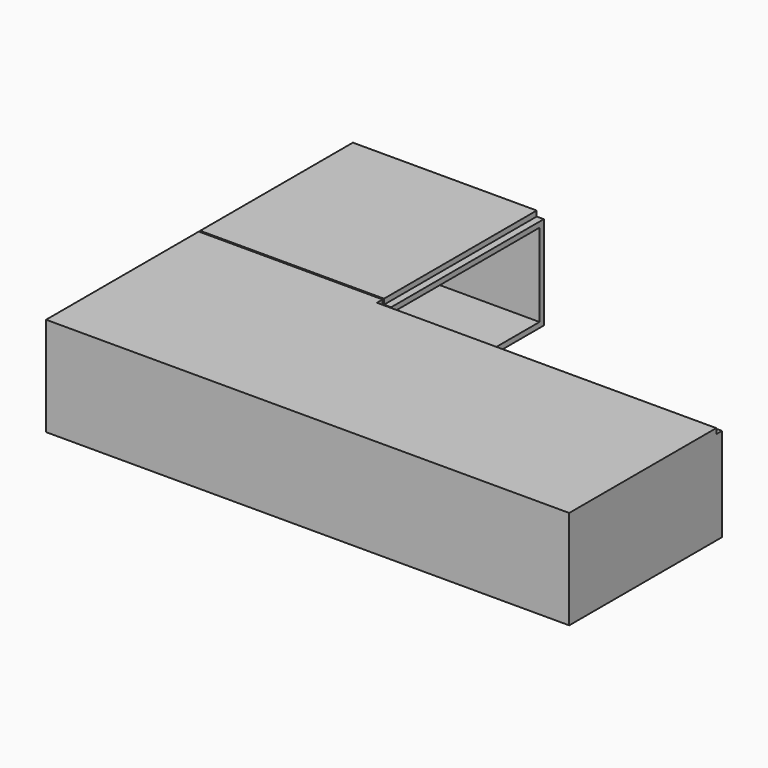
from build123d import *

# Parameters (mm, degrees)
F0_W     = 1879.6
F0_H     = 685.8
F1_DEPTH = 355.6
F2_W     = 25.4
F2_H     = 19.05
F3_DEPTH = 1219.2
F4_T     = -19.05
F5_W     = 685.8
F5_H     = 685.8
F6_DEPTH = 355.6
F7_W     = 25.4
F7_H     = 19.05
F8_DEPTH = 685.8
F9_T     = -19.05


with BuildPart() as f1:
    # F0 (on Top) → F1 (new body)
    with BuildSketch(Plane.XY):
        with Locations((208.4965914682, -5.3716953844)):
            Rectangle(F0_W, F0_H)
    extrude(amount=F1_DEPTH)

    # F2 (on face) → F3 (cut)
    with BuildSketch(Plane.YZ.offset(1148.2965914682)):
        with Locations((324.8283046156, 346.075)):
            Rectangle(F2_W, F2_H)
    extrude(amount=-F3_DEPTH, mode=Mode.SUBTRACT)

    # F4
    f4_openings = [f1.faces().sort_by_distance(p)[0] for p in [
        (196.609391, 337.528305, 171.7421),
    ]]
    offset(amount=F4_T, openings=f4_openings, kind=Kind.INTERSECTION)


with BuildPart() as f6:
    # F5 (on face) → F6 (new body)
    with BuildSketch(Plane(origin=(0, 0, 0), x_dir=(1, 0, 0), z_dir=(0, 0, -1))):
        with Locations((-388.4034085318, -686.7783046156)):
            Rectangle(F5_W, F5_H)
    extrude(amount=-F6_DEPTH)

    # F7 (on face) → F8 (cut, through all)
    with BuildSketch(Plane(origin=(0, 1029.6783046156, 0), x_dir=(-1, 0, 0), z_dir=(0, 1, 0))):
        with Locations((58.2034085318, 346.075)):
            Rectangle(F7_W, F7_H)
    extrude(amount=-F8_DEPTH, mode=Mode.SUBTRACT)

    # F9
    f9_openings = [f6.faces().sort_by_distance(p)[0] for p in [
        (-45.503409, 686.778305, 168.275),
    ]]
    offset(amount=F9_T, openings=f9_openings, kind=Kind.INTERSECTION)


solid = Compound([f1.part, f6.part])
